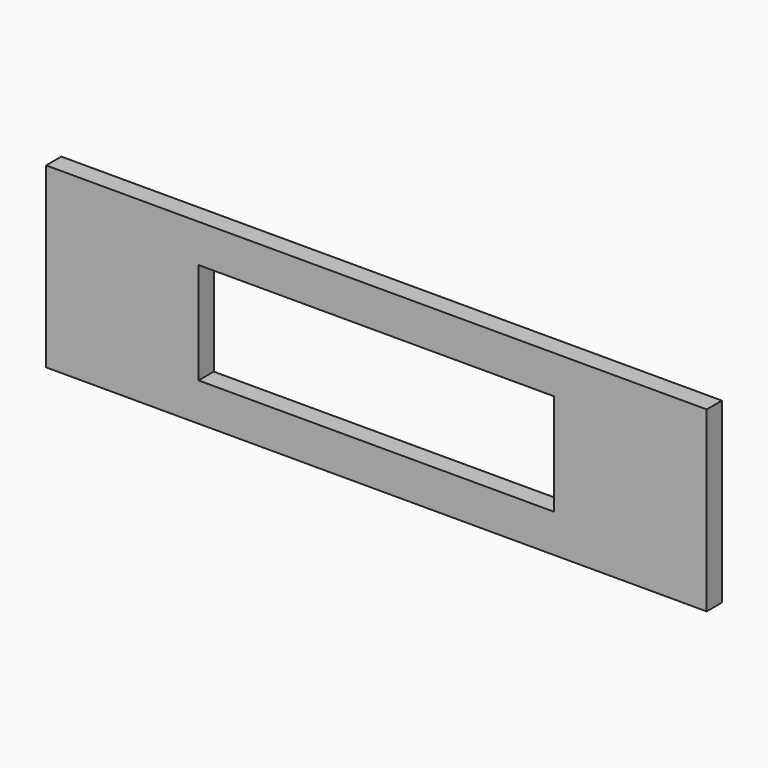
from build123d import *

# Parameters (mm, degrees)
F0_W     = 19.05
F0_H     = 177.8
F1_DEPTH = 330.2
F2_W     = 355.6
F2_H     = 101.6
F3_DEPTH = 25.4


with BuildPart() as f1:
    # F0 (on Right) → F1 (new body, symmetric)
    with BuildSketch(Plane.YZ):
        Rectangle(F0_W, F0_H)
    extrude(amount=F1_DEPTH, both=True)

    # F2 (on face) → F3 (cut)
    with BuildSketch(Plane.XZ.offset(9.525)):
        Rectangle(F2_W, F2_H)
    extrude(amount=-F3_DEPTH, mode=Mode.SUBTRACT)


solid = f1.part
